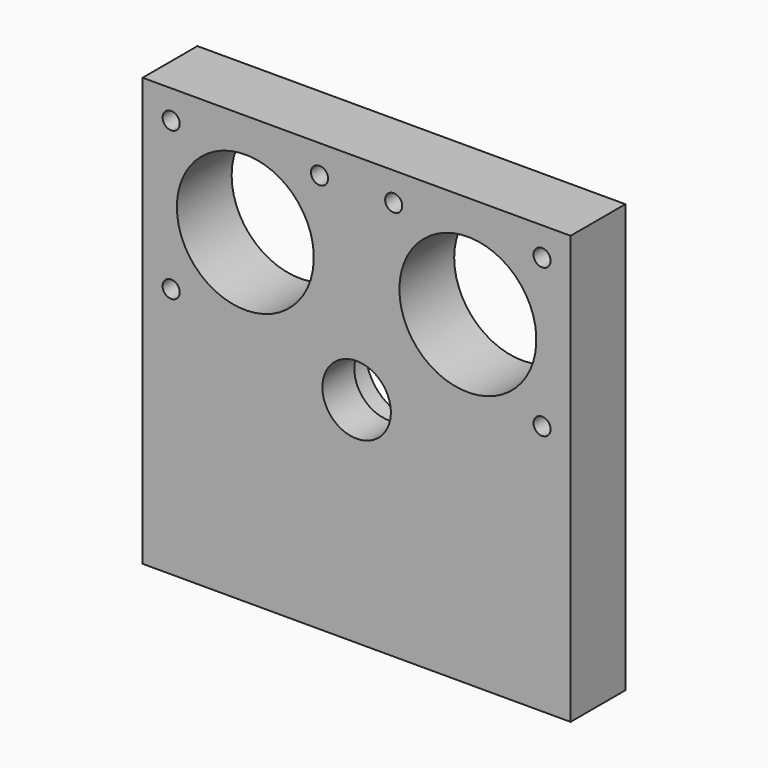
from build123d import *

# Parameters (mm, degrees)
F0_W     = 75
F0_H     = 75
F1_DEPTH = 6
F2_R     = 12
F2_R_2   = 1.5
F3_DEPTH = 12.001
F4_R     = 8
F5_DEPTH = 5
F6_R     = 6
F7_DEPTH = 7.001


with BuildPart() as f1:
    # F0 (on Front) → F1 (new body, symmetric)
    with BuildSketch(Plane.XZ):
        Rectangle(F0_W, F0_H)
    extrude(amount=F1_DEPTH, both=True)

    # F2 (on face) → F3 (cut, through all)
    with BuildSketch(Plane(origin=(0, 6, 0), x_dir=(-1, 0, 0), z_dir=(0, 1, 0))):
        with Locations((-19.5, 19.5)):
            Circle(F2_R)
        with Locations((-32.5, 32.5)):
            Circle(F2_R_2)
        with Locations((-32.5, 6.5)):
            Circle(F2_R_2)
        with Locations((-6.5, 32.5)):
            Circle(F2_R_2)
        with Locations((32.5, 6.5)):
            Circle(F2_R_2)
        with Locations((32.5, 32.5)):
            Circle(F2_R_2)
        with Locations((19.5, 19.5)):
            Circle(F2_R)
        with Locations((6.5, 32.5)):
            Circle(F2_R_2)
    extrude(amount=-F3_DEPTH, mode=Mode.SUBTRACT)

    # F4 (on face) → F5 (cut)
    with BuildSketch(Plane(origin=(0, 6, 0), x_dir=(-1, 0, 0), z_dir=(0, 1, 0))):
        Circle(F4_R)
    extrude(amount=-F5_DEPTH, mode=Mode.SUBTRACT)

    # F6 (on face) → F7 (cut, through all)
    with BuildSketch(Plane(origin=(0, 1, 0), x_dir=(-1, 0, 0), z_dir=(0, 1, 0))):
        Circle(F6_R)
    extrude(amount=-F7_DEPTH, mode=Mode.SUBTRACT)


solid = f1.part
